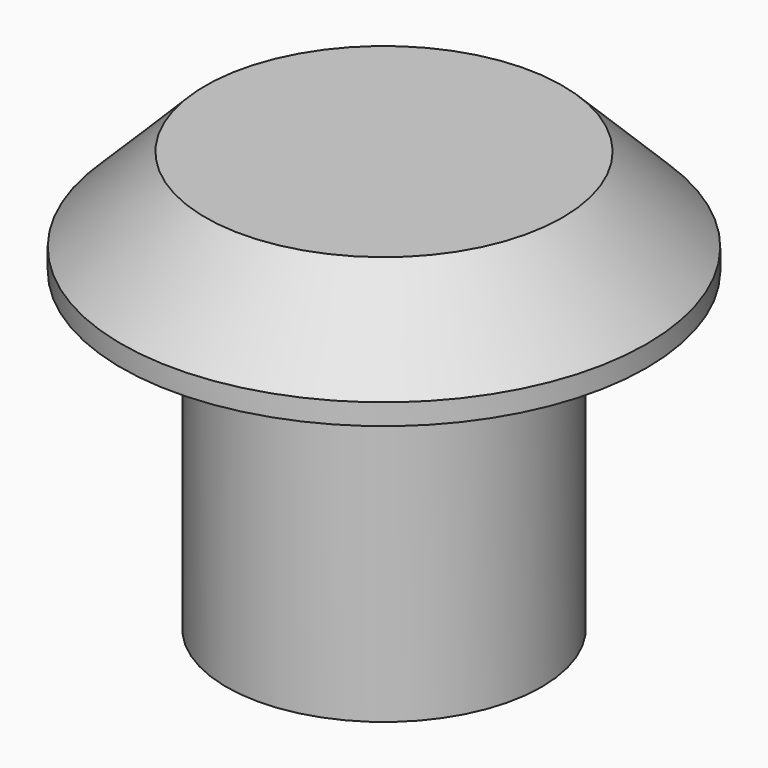
from build123d import *

# Parameters (mm, degrees)
F0_R     = 15.875
F1_DEPTH = 6.35
F2_SIZE  = 5.08
F3_R     = 9.525
F3_R_2   = 7.14375
F4_DEPTH = 19.05


with BuildPart() as f1:
    # F0 (on Top) → F1 (new body)
    with BuildSketch(Plane.XY):
        Circle(F0_R)
    extrude(amount=F1_DEPTH)

    # F2
    f2_edges = [f1.edges().sort_by_distance(p)[0] for p in [
        (-15.875, 0, 6.35),
    ]]
    chamfer(f2_edges, length=F2_SIZE)

    # F3 (on face) → F4 (join)
    with BuildSketch(Plane(origin=(0, 0, 0), x_dir=(1, 0, 0), z_dir=(0, 0, -1))):
        Circle(F3_R)
        Circle(F3_R_2, mode=Mode.SUBTRACT)
    extrude(amount=F4_DEPTH)


solid = f1.part
